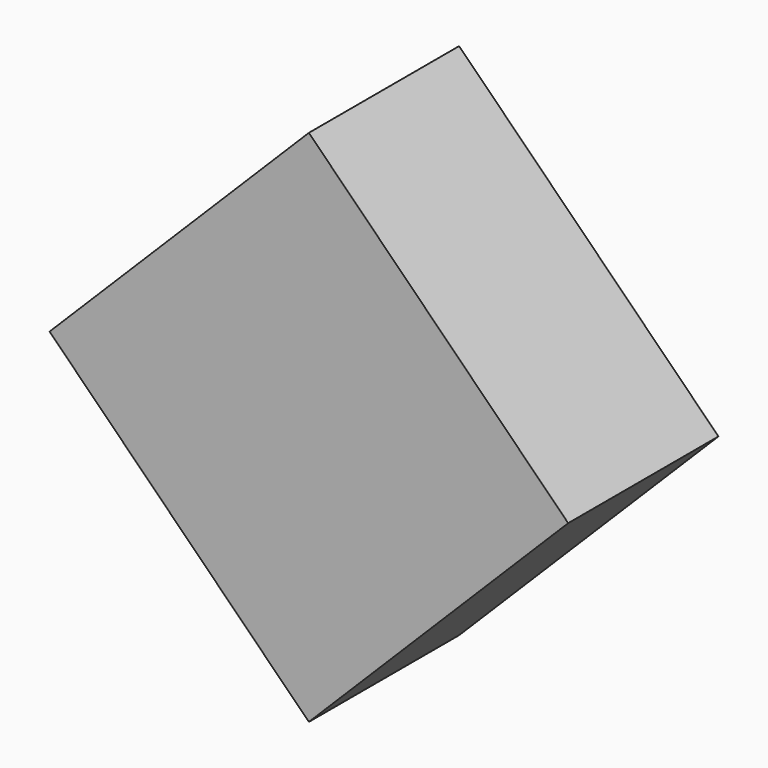
from build123d import *

# Parameters (mm, degrees)
F2_DEPTH      = 25.4
F2_DEPTH_BACK = 25.4


with BuildPart() as f2:
    # F1 (on face) → F2 (new body, two sides)
    with BuildSketch(Plane.XZ) as f2_sk:
        Polygon((0, -70.133694), (70.133694, 0), (0, 70.133694), (-70.133694, 0), align=None)
    extrude(amount=F2_DEPTH)
    extrude(f2_sk.sketch, amount=-F2_DEPTH_BACK)


solid = f2.part
